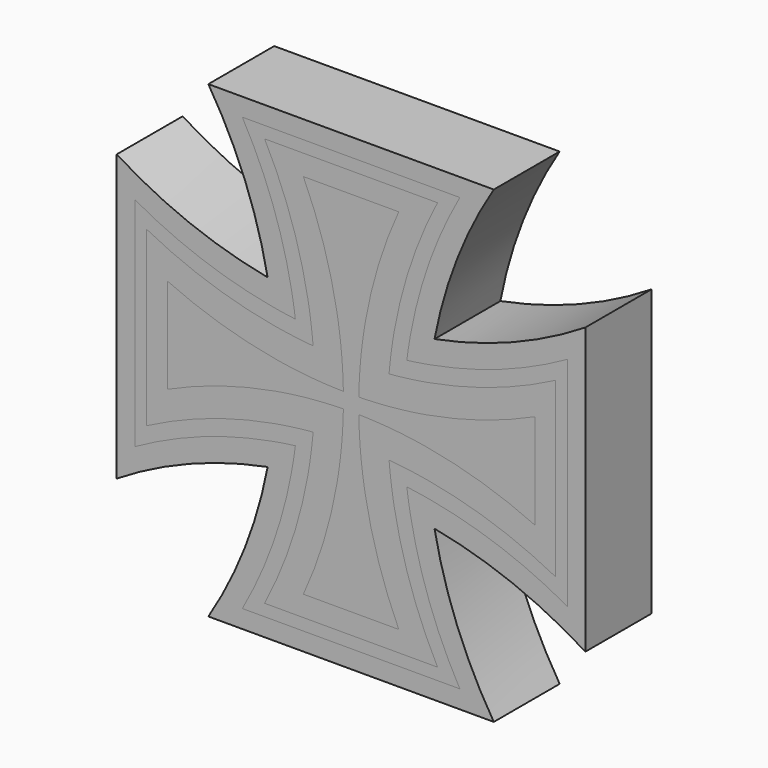
from build123d import *

# Parameters (mm, degrees)
F1_DEPTH = 1.5
F2_DEPTH = 1.5
F3_DEPTH = 1.5
F4_DEPTH = 1.5


with BuildPart() as f1:
    # F0 (on Front) → F1 (new body)
    with BuildSketch(Plane.XZ):
        with BuildLine():
            ThreePointArc((-15.757464312, 12.1418689844), (-15.5155248699, 13.1464746696), (-15.1469683629, 14.1118416347))
            Line((-15.1469683629, 14.1118416347), (-16.8850300933, 14.1118416347))
            ThreePointArc((-16.8850300933, 14.1118416347), (-16.5164735863, 13.1464746696), (-16.2745341442, 12.1418689844))
            ThreePointArc((-16.2745341442, 12.1418689844), (-16.0159992281, 12.1377189774), (-15.757464312, 12.1418689844))
        make_face()
        with BuildLine():
            ThreePointArc((-15.8198349653, 11.7160129562), (-15.7914944292, 11.9293576169), (-15.757464312, 12.1418689844))
            ThreePointArc((-15.757464312, 12.1418689844), (-16.0159992281, 12.1377189774), (-16.2745341442, 12.1418689844))
            ThreePointArc((-16.2745341442, 12.1418689844), (-16.240504027, 11.9293576169), (-16.2121634909, 11.7160129562))
            ThreePointArc((-16.2121634909, 11.7160129562), (-16.0159992281, 11.7136240301), (-15.8198349653, 11.7160129562))
        make_face()
        with BuildLine():
            ThreePointArc((-15.8491107098, 11.4260235496), (-15.8357845549, 11.5711506767), (-15.8198349653, 11.7160129562))
            ThreePointArc((-15.8198349653, 11.7160129562), (-16.0159992281, 11.7136240301), (-16.2121634909, 11.7160129562))
            ThreePointArc((-16.2121634909, 11.7160129562), (-16.1962139013, 11.5711506767), (-16.1828877465, 11.4260235496))
            ThreePointArc((-16.1828877465, 11.4260235496), (-16.0159992281, 11.4242945374), (-15.8491107098, 11.4260235496))
        make_face()
        with BuildLine():
            ThreePointArc((-15.8752925072, 10.9027701447), (-15.8664568138, 11.164609763), (-15.8491107098, 11.4260235496))
            ThreePointArc((-15.8491107098, 11.4260235496), (-16.0159992281, 11.4242945374), (-16.1828877465, 11.4260235496))
            ThreePointArc((-16.1828877465, 11.4260235496), (-16.1655416424, 11.164609763), (-16.156705949, 10.9027701447))
            ThreePointArc((-16.156705949, 10.9027701447), (-16.0159992281, 10.9015411179), (-15.8752925072, 10.9027701447))
        make_face()
        with BuildLine():
            ThreePointArc((-15.8752925072, 10.6213567029), (-15.876521534, 10.7620634238), (-15.8752925072, 10.9027701447))
            ThreePointArc((-15.8752925072, 10.9027701447), (-16.0159992281, 10.9015411179), (-16.156705949, 10.9027701447))
            ThreePointArc((-16.156705949, 10.9027701447), (-16.1554769222, 10.7620634238), (-16.156705949, 10.6213567029))
            ThreePointArc((-16.156705949, 10.6213567029), (-16.0159992281, 10.6225857297), (-15.8752925072, 10.6213567029))
        make_face()
        with BuildLine():
            ThreePointArc((-16.1828877465, 10.0981032979), (-16.0159992281, 10.0998323102), (-15.8491107098, 10.0981032979))
            ThreePointArc((-15.8491107098, 10.0981032979), (-15.8664568138, 10.3595170846), (-15.8752925072, 10.6213567029))
            ThreePointArc((-15.8752925072, 10.6213567029), (-16.0159992281, 10.6225857297), (-16.156705949, 10.6213567029))
            ThreePointArc((-16.156705949, 10.6213567029), (-16.1655416424, 10.3595170846), (-16.1828877465, 10.0981032979))
        make_face()
        with BuildLine():
            ThreePointArc((-16.2121634909, 9.8081138914), (-16.0159992281, 9.8105028175), (-15.8198349653, 9.8081138914))
            ThreePointArc((-15.8198349653, 9.8081138914), (-15.8357845549, 9.9529761708), (-15.8491107098, 10.0981032979))
            ThreePointArc((-15.8491107098, 10.0981032979), (-16.0159992281, 10.0998323102), (-16.1828877465, 10.0981032979))
            ThreePointArc((-16.1828877465, 10.0981032979), (-16.1962139013, 9.9529761708), (-16.2121634909, 9.8081138914))
        make_face()
        with BuildLine():
            ThreePointArc((-16.2745341442, 9.3822578631), (-16.0159992281, 9.3864078702), (-15.757464312, 9.3822578631))
            ThreePointArc((-15.757464312, 9.3822578631), (-15.7914944292, 9.5947692307), (-15.8198349653, 9.8081138914))
            ThreePointArc((-15.8198349653, 9.8081138914), (-16.0159992281, 9.8105028175), (-16.2121634909, 9.8081138914))
            ThreePointArc((-16.2121634909, 9.8081138914), (-16.240504027, 9.5947692307), (-16.2745341442, 9.3822578631))
        make_face()
        with BuildLine():
            Line((-16.8850300933, 7.4122852129), (-15.1469683629, 7.4122852129))
            ThreePointArc((-15.1469683629, 7.4122852129), (-15.5155248699, 8.377652178), (-15.757464312, 9.3822578631))
            ThreePointArc((-15.757464312, 9.3822578631), (-16.0159992281, 9.3864078702), (-16.2745341442, 9.3822578631))
            ThreePointArc((-16.2745341442, 9.3822578631), (-16.5164735863, 8.377652178), (-16.8850300933, 7.4122852129))
        make_face()
        with BuildLine():
            Line((-12.6662210172, 9.8930325586), (-12.6662210172, 11.631094289))
            ThreePointArc((-12.6662210172, 11.631094289), (-13.6315879823, 11.262537782), (-14.6361936675, 11.0205983399))
            ThreePointArc((-14.6361936675, 11.0205983399), (-14.6403436745, 10.7620634238), (-14.6361936675, 10.5035285077))
            ThreePointArc((-14.6361936675, 10.5035285077), (-13.6315879823, 10.2615890656), (-12.6662210172, 9.8930325586))
        make_face()
        with BuildLine():
            ThreePointArc((-14.6361936675, 10.5035285077), (-14.6403436745, 10.7620634238), (-14.6361936675, 11.0205983399))
            ThreePointArc((-14.6361936675, 11.0205983399), (-14.848705035, 10.9865682227), (-15.0620496957, 10.9582276866))
            ThreePointArc((-15.0620496957, 10.9582276866), (-15.0644386218, 10.7620634238), (-15.0620496957, 10.565899161))
            ThreePointArc((-15.0620496957, 10.565899161), (-14.848705035, 10.5375586249), (-14.6361936675, 10.5035285077))
        make_face()
        with BuildLine():
            ThreePointArc((-15.0620496957, 10.565899161), (-15.0644386218, 10.7620634238), (-15.0620496957, 10.9582276866))
            ThreePointArc((-15.0620496957, 10.9582276866), (-15.2069119752, 10.942278097), (-15.3520391023, 10.9289519422))
            ThreePointArc((-15.3520391023, 10.9289519422), (-15.3537681145, 10.7620634238), (-15.3520391023, 10.5951749054))
            ThreePointArc((-15.3520391023, 10.5951749054), (-15.2069119752, 10.5818487506), (-15.0620496957, 10.565899161))
        make_face()
        with BuildLine():
            ThreePointArc((-15.3520391023, 10.5951749054), (-15.3537681145, 10.7620634238), (-15.3520391023, 10.9289519422))
            ThreePointArc((-15.3520391023, 10.9289519422), (-15.6134528889, 10.9116058381), (-15.8752925072, 10.9027701447))
            ThreePointArc((-15.8752925072, 10.9027701447), (-15.876521534, 10.7620634238), (-15.8752925072, 10.6213567029))
            ThreePointArc((-15.8752925072, 10.6213567029), (-15.6134528889, 10.6125210095), (-15.3520391023, 10.5951749054))
        make_face()
        with BuildLine():
            ThreePointArc((-16.156705949, 10.9027701447), (-16.4185455673, 10.9116058381), (-16.679959354, 10.9289519422))
            ThreePointArc((-16.679959354, 10.9289519422), (-16.6782303417, 10.7620634238), (-16.679959354, 10.5951749054))
            ThreePointArc((-16.679959354, 10.5951749054), (-16.4185455673, 10.6125210095), (-16.156705949, 10.6213567029))
            ThreePointArc((-16.156705949, 10.6213567029), (-16.1554769222, 10.7620634238), (-16.156705949, 10.9027701447))
        make_face()
        with BuildLine():
            ThreePointArc((-16.679959354, 10.9289519422), (-16.8250864811, 10.942278097), (-16.9699487605, 10.9582276866))
            ThreePointArc((-16.9699487605, 10.9582276866), (-16.9675598344, 10.7620634238), (-16.9699487605, 10.565899161))
            ThreePointArc((-16.9699487605, 10.565899161), (-16.8250864811, 10.5818487506), (-16.679959354, 10.5951749054))
            ThreePointArc((-16.679959354, 10.5951749054), (-16.6782303417, 10.7620634238), (-16.679959354, 10.9289519422))
        make_face()
        with BuildLine():
            ThreePointArc((-16.9699487605, 10.9582276866), (-17.1832934212, 10.9865682227), (-17.3958047888, 11.0205983399))
            ThreePointArc((-17.3958047888, 11.0205983399), (-17.3916547817, 10.7620634238), (-17.3958047888, 10.5035285077))
            ThreePointArc((-17.3958047888, 10.5035285077), (-17.1832934212, 10.5375586249), (-16.9699487605, 10.565899161))
            ThreePointArc((-16.9699487605, 10.565899161), (-16.9675598344, 10.7620634238), (-16.9699487605, 10.9582276866))
        make_face()
        with BuildLine():
            ThreePointArc((-17.3958047888, 11.0205983399), (-18.4004104739, 11.262537782), (-19.365777439, 11.631094289))
            Line((-19.365777439, 11.631094289), (-19.365777439, 9.8930325586))
            ThreePointArc((-19.365777439, 9.8930325586), (-18.4004104739, 10.2615890656), (-17.3958047888, 10.5035285077))
            ThreePointArc((-17.3958047888, 10.5035285077), (-17.3916547817, 10.7620634238), (-17.3958047888, 11.0205983399))
        make_face()
    extrude(amount=F1_DEPTH)


with BuildPart() as f2:
    # F0 (on Front) → F2 (new body)
    with BuildSketch(Plane.XZ):
        with BuildLine():
            Line((-16.8850300933, 14.1118416347), (-17.591421997, 14.4873552543))
            ThreePointArc((-17.591421997, 14.4873552543), (-17.1093081566, 13.3618576917), (-16.8033493781, 12.1762912682))
            ThreePointArc((-16.8033493781, 12.1762912682), (-16.539224912, 12.1547301977), (-16.2745341442, 12.1418689844))
            ThreePointArc((-16.2745341442, 12.1418689844), (-16.5164735863, 13.1464746696), (-16.8850300933, 14.1118416347))
        make_face()
        Polygon((-15.1469683629, 14.1118416347), (-14.4405764593, 14.4873552543), (-17.591421997, 14.4873552543), (-16.8850300933, 14.1118416347), align=None)
        with BuildLine():
            ThreePointArc((-15.2286490781, 12.1762912682), (-14.9226902997, 13.3618576917), (-14.4405764593, 14.4873552543))
            Line((-14.4405764593, 14.4873552543), (-15.1469683629, 14.1118416347))
            ThreePointArc((-15.1469683629, 14.1118416347), (-15.5155248699, 13.1464746696), (-15.757464312, 12.1418689844))
            ThreePointArc((-15.757464312, 12.1418689844), (-15.4927735442, 12.1547301977), (-15.2286490781, 12.1762912682))
        make_face()
        with BuildLine():
            ThreePointArc((-15.2934360577, 11.7460973333), (-15.2639473679, 11.9616317621), (-15.2286490781, 12.1762912682))
            ThreePointArc((-15.2286490781, 12.1762912682), (-15.4927735442, 12.1547301977), (-15.757464312, 12.1418689844))
            ThreePointArc((-15.757464312, 12.1418689844), (-15.7914944292, 11.9293576169), (-15.8198349653, 11.7160129562))
            ThreePointArc((-15.8198349653, 11.7160129562), (-15.556389294, 11.7267469736), (-15.2934360577, 11.7460973333))
        make_face()
        with BuildLine():
            ThreePointArc((-15.3239878495, 11.4540748024), (-15.3100426263, 11.6002252846), (-15.2934360577, 11.7460973333))
            ThreePointArc((-15.2934360577, 11.7460973333), (-15.556389294, 11.7267469736), (-15.8198349653, 11.7160129562))
            ThreePointArc((-15.8198349653, 11.7160129562), (-15.8357845549, 11.5711506767), (-15.8491107098, 11.4260235496))
            ThreePointArc((-15.8491107098, 11.4260235496), (-15.5863203056, 11.4357627544), (-15.3239878495, 11.4540748024))
        make_face()
        with BuildLine():
            ThreePointArc((-15.3520391023, 10.9289519422), (-15.3422998975, 11.1917423463), (-15.3239878495, 11.4540748024))
            ThreePointArc((-15.3239878495, 11.4540748024), (-15.5863203056, 11.4357627544), (-15.8491107098, 11.4260235496))
            ThreePointArc((-15.8491107098, 11.4260235496), (-15.8664568138, 11.164609763), (-15.8752925072, 10.9027701447))
            ThreePointArc((-15.8752925072, 10.9027701447), (-15.6134528889, 10.9116058381), (-15.3520391023, 10.9289519422))
        make_face()
        with BuildLine():
            ThreePointArc((-15.0620496957, 10.9582276866), (-15.0513156783, 11.2216733579), (-15.0319653186, 11.4846265942))
            ThreePointArc((-15.0319653186, 11.4846265942), (-15.1778373673, 11.4680200256), (-15.3239878495, 11.4540748024))
            ThreePointArc((-15.3239878495, 11.4540748024), (-15.3422998975, 11.1917423463), (-15.3520391023, 10.9289519422))
            ThreePointArc((-15.3520391023, 10.9289519422), (-15.2069119752, 10.942278097), (-15.0620496957, 10.9582276866))
        make_face()
        with BuildLine():
            ThreePointArc((-14.6361936675, 11.0205983399), (-14.6233324542, 11.2852891077), (-14.6017713837, 11.5494135738))
            ThreePointArc((-14.6017713837, 11.5494135738), (-14.8164308898, 11.514115284), (-15.0319653186, 11.4846265942))
            ThreePointArc((-15.0319653186, 11.4846265942), (-15.0513156783, 11.2216733579), (-15.0620496957, 10.9582276866))
            ThreePointArc((-15.0620496957, 10.9582276866), (-14.848705035, 10.9865682227), (-14.6361936675, 11.0205983399))
        make_face()
        with BuildLine():
            Line((-12.6662210172, 11.631094289), (-12.2907073976, 12.3374861926))
            ThreePointArc((-12.2907073976, 12.3374861926), (-13.4162049602, 11.8553723522), (-14.6017713837, 11.5494135738))
            ThreePointArc((-14.6017713837, 11.5494135738), (-14.6233324542, 11.2852891077), (-14.6361936675, 11.0205983399))
            ThreePointArc((-14.6361936675, 11.0205983399), (-13.6315879823, 11.262537782), (-12.6662210172, 11.631094289))
        make_face()
        Polygon((-12.2907073976, 9.1866406549), (-12.2907073976, 12.3374861926), (-12.6662210172, 11.631094289), (-12.6662210172, 9.8930325586), align=None)
        with BuildLine():
            ThreePointArc((-14.6017713837, 9.9747132738), (-13.4162049602, 9.6687544953), (-12.2907073976, 9.1866406549))
            Line((-12.2907073976, 9.1866406549), (-12.6662210172, 9.8930325586))
            ThreePointArc((-12.6662210172, 9.8930325586), (-13.6315879823, 10.2615890656), (-14.6361936675, 10.5035285077))
            ThreePointArc((-14.6361936675, 10.5035285077), (-14.6233324542, 10.2388377399), (-14.6017713837, 9.9747132738))
        make_face()
        with BuildLine():
            ThreePointArc((-15.0319653186, 10.0395002534), (-14.8164308898, 10.0100115635), (-14.6017713837, 9.9747132738))
            ThreePointArc((-14.6017713837, 9.9747132738), (-14.6233324542, 10.2388377399), (-14.6361936675, 10.5035285077))
            ThreePointArc((-14.6361936675, 10.5035285077), (-14.848705035, 10.5375586249), (-15.0620496957, 10.565899161))
            ThreePointArc((-15.0620496957, 10.565899161), (-15.0513156783, 10.3024534896), (-15.0319653186, 10.0395002534))
        make_face()
        with BuildLine():
            ThreePointArc((-15.3239878495, 10.0700520452), (-15.1778373673, 10.0561068219), (-15.0319653186, 10.0395002534))
            ThreePointArc((-15.0319653186, 10.0395002534), (-15.0513156783, 10.3024534896), (-15.0620496957, 10.565899161))
            ThreePointArc((-15.0620496957, 10.565899161), (-15.2069119752, 10.5818487506), (-15.3520391023, 10.5951749054))
            ThreePointArc((-15.3520391023, 10.5951749054), (-15.3422998975, 10.3323845013), (-15.3239878495, 10.0700520452))
        make_face()
        with BuildLine():
            ThreePointArc((-15.8491107098, 10.0981032979), (-15.5863203056, 10.0883640931), (-15.3239878495, 10.0700520452))
            ThreePointArc((-15.3239878495, 10.0700520452), (-15.3422998975, 10.3323845013), (-15.3520391023, 10.5951749054))
            ThreePointArc((-15.3520391023, 10.5951749054), (-15.6134528889, 10.6125210095), (-15.8752925072, 10.6213567029))
            ThreePointArc((-15.8752925072, 10.6213567029), (-15.8664568138, 10.3595170846), (-15.8491107098, 10.0981032979))
        make_face()
        with BuildLine():
            ThreePointArc((-15.8198349653, 9.8081138914), (-15.556389294, 9.797379874), (-15.2934360577, 9.7780295142))
            ThreePointArc((-15.2934360577, 9.7780295142), (-15.3100426263, 9.923901563), (-15.3239878495, 10.0700520452))
            ThreePointArc((-15.3239878495, 10.0700520452), (-15.5863203056, 10.0883640931), (-15.8491107098, 10.0981032979))
            ThreePointArc((-15.8491107098, 10.0981032979), (-15.8357845549, 9.9529761708), (-15.8198349653, 9.8081138914))
        make_face()
        with BuildLine():
            ThreePointArc((-15.757464312, 9.3822578631), (-15.4927735442, 9.3693966498), (-15.2286490781, 9.3478355794))
            ThreePointArc((-15.2286490781, 9.3478355794), (-15.2639473679, 9.5624950855), (-15.2934360577, 9.7780295142))
            ThreePointArc((-15.2934360577, 9.7780295142), (-15.556389294, 9.797379874), (-15.8198349653, 9.8081138914))
            ThreePointArc((-15.8198349653, 9.8081138914), (-15.7914944292, 9.5947692307), (-15.757464312, 9.3822578631))
        make_face()
        with BuildLine():
            Line((-15.1469683629, 7.4122852129), (-14.4405764593, 7.0367715933))
            ThreePointArc((-14.4405764593, 7.0367715933), (-14.9226902997, 8.1622691559), (-15.2286490781, 9.3478355794))
            ThreePointArc((-15.2286490781, 9.3478355794), (-15.4927735442, 9.3693966498), (-15.757464312, 9.3822578631))
            ThreePointArc((-15.757464312, 9.3822578631), (-15.5155248699, 8.377652178), (-15.1469683629, 7.4122852129))
        make_face()
        Polygon((-17.591421997, 7.0367715933), (-14.4405764593, 7.0367715933), (-15.1469683629, 7.4122852129), (-16.8850300933, 7.4122852129), align=None)
        with BuildLine():
            ThreePointArc((-16.8033493781, 9.3478355794), (-17.1093081566, 8.1622691559), (-17.591421997, 7.0367715933))
            Line((-17.591421997, 7.0367715933), (-16.8850300933, 7.4122852129))
            ThreePointArc((-16.8850300933, 7.4122852129), (-16.5164735863, 8.377652178), (-16.2745341442, 9.3822578631))
            ThreePointArc((-16.2745341442, 9.3822578631), (-16.539224912, 9.3693966498), (-16.8033493781, 9.3478355794))
        make_face()
        with BuildLine():
            ThreePointArc((-16.7385623985, 9.7780295142), (-16.7680510884, 9.5624950855), (-16.8033493781, 9.3478355794))
            ThreePointArc((-16.8033493781, 9.3478355794), (-16.539224912, 9.3693966498), (-16.2745341442, 9.3822578631))
            ThreePointArc((-16.2745341442, 9.3822578631), (-16.240504027, 9.5947692307), (-16.2121634909, 9.8081138914))
            ThreePointArc((-16.2121634909, 9.8081138914), (-16.4756091623, 9.797379874), (-16.7385623985, 9.7780295142))
        make_face()
        with BuildLine():
            ThreePointArc((-16.7080106067, 10.0700520452), (-16.72195583, 9.923901563), (-16.7385623985, 9.7780295142))
            ThreePointArc((-16.7385623985, 9.7780295142), (-16.4756091623, 9.797379874), (-16.2121634909, 9.8081138914))
            ThreePointArc((-16.2121634909, 9.8081138914), (-16.1962139013, 9.9529761708), (-16.1828877465, 10.0981032979))
            ThreePointArc((-16.1828877465, 10.0981032979), (-16.4456781506, 10.0883640931), (-16.7080106067, 10.0700520452))
        make_face()
        with BuildLine():
            ThreePointArc((-16.679959354, 10.5951749054), (-16.6896985588, 10.3323845013), (-16.7080106067, 10.0700520452))
            ThreePointArc((-16.7080106067, 10.0700520452), (-16.4456781506, 10.0883640931), (-16.1828877465, 10.0981032979))
            ThreePointArc((-16.1828877465, 10.0981032979), (-16.1655416424, 10.3595170846), (-16.156705949, 10.6213567029))
            ThreePointArc((-16.156705949, 10.6213567029), (-16.4185455673, 10.6125210095), (-16.679959354, 10.5951749054))
        make_face()
        with BuildLine():
            ThreePointArc((-16.9699487605, 10.565899161), (-16.9806827779, 10.3024534896), (-17.0000331377, 10.0395002534))
            ThreePointArc((-17.0000331377, 10.0395002534), (-16.8541610889, 10.0561068219), (-16.7080106067, 10.0700520452))
            ThreePointArc((-16.7080106067, 10.0700520452), (-16.6896985588, 10.3323845013), (-16.679959354, 10.5951749054))
            ThreePointArc((-16.679959354, 10.5951749054), (-16.8250864811, 10.5818487506), (-16.9699487605, 10.565899161))
        make_face()
        with BuildLine():
            ThreePointArc((-17.3958047888, 10.5035285077), (-17.4086660021, 10.2388377399), (-17.4302270725, 9.9747132738))
            ThreePointArc((-17.4302270725, 9.9747132738), (-17.2155675664, 10.0100115635), (-17.0000331377, 10.0395002534))
            ThreePointArc((-17.0000331377, 10.0395002534), (-16.9806827779, 10.3024534896), (-16.9699487605, 10.565899161))
            ThreePointArc((-16.9699487605, 10.565899161), (-17.1832934212, 10.5375586249), (-17.3958047888, 10.5035285077))
        make_face()
        with BuildLine():
            Line((-19.365777439, 9.8930325586), (-19.7412910586, 9.1866406549))
            ThreePointArc((-19.7412910586, 9.1866406549), (-18.615793496, 9.6687544953), (-17.4302270725, 9.9747132738))
            ThreePointArc((-17.4302270725, 9.9747132738), (-17.4086660021, 10.2388377399), (-17.3958047888, 10.5035285077))
            ThreePointArc((-17.3958047888, 10.5035285077), (-18.4004104739, 10.2615890656), (-19.365777439, 9.8930325586))
        make_face()
        Polygon((-19.365777439, 11.631094289), (-19.7412910586, 12.3374861926), (-19.7412910586, 9.1866406549), (-19.365777439, 9.8930325586), align=None)
        with BuildLine():
            ThreePointArc((-17.4302270725, 11.5494135738), (-18.615793496, 11.8553723522), (-19.7412910586, 12.3374861926))
            Line((-19.7412910586, 12.3374861926), (-19.365777439, 11.631094289))
            ThreePointArc((-19.365777439, 11.631094289), (-18.4004104739, 11.262537782), (-17.3958047888, 11.0205983399))
            ThreePointArc((-17.3958047888, 11.0205983399), (-17.4086660021, 11.2852891077), (-17.4302270725, 11.5494135738))
        make_face()
        with BuildLine():
            ThreePointArc((-17.0000331377, 11.4846265942), (-17.2155675664, 11.514115284), (-17.4302270725, 11.5494135738))
            ThreePointArc((-17.4302270725, 11.5494135738), (-17.4086660021, 11.2852891077), (-17.3958047888, 11.0205983399))
            ThreePointArc((-17.3958047888, 11.0205983399), (-17.1832934212, 10.9865682227), (-16.9699487605, 10.9582276866))
            ThreePointArc((-16.9699487605, 10.9582276866), (-16.9806827779, 11.2216733579), (-17.0000331377, 11.4846265942))
        make_face()
        with BuildLine():
            ThreePointArc((-16.7080106067, 11.4540748024), (-16.8541610889, 11.4680200256), (-17.0000331377, 11.4846265942))
            ThreePointArc((-17.0000331377, 11.4846265942), (-16.9806827779, 11.2216733579), (-16.9699487605, 10.9582276866))
            ThreePointArc((-16.9699487605, 10.9582276866), (-16.8250864811, 10.942278097), (-16.679959354, 10.9289519422))
            ThreePointArc((-16.679959354, 10.9289519422), (-16.6896985588, 11.1917423463), (-16.7080106067, 11.4540748024))
        make_face()
        with BuildLine():
            ThreePointArc((-16.1828877465, 11.4260235496), (-16.4456781506, 11.4357627544), (-16.7080106067, 11.4540748024))
            ThreePointArc((-16.7080106067, 11.4540748024), (-16.6896985588, 11.1917423463), (-16.679959354, 10.9289519422))
            ThreePointArc((-16.679959354, 10.9289519422), (-16.4185455673, 10.9116058381), (-16.156705949, 10.9027701447))
            ThreePointArc((-16.156705949, 10.9027701447), (-16.1655416424, 11.164609763), (-16.1828877465, 11.4260235496))
        make_face()
        with BuildLine():
            ThreePointArc((-16.2121634909, 11.7160129562), (-16.4756091623, 11.7267469736), (-16.7385623985, 11.7460973333))
            ThreePointArc((-16.7385623985, 11.7460973333), (-16.72195583, 11.6002252846), (-16.7080106067, 11.4540748024))
            ThreePointArc((-16.7080106067, 11.4540748024), (-16.4456781506, 11.4357627544), (-16.1828877465, 11.4260235496))
            ThreePointArc((-16.1828877465, 11.4260235496), (-16.1962139013, 11.5711506767), (-16.2121634909, 11.7160129562))
        make_face()
        with BuildLine():
            ThreePointArc((-16.2745341442, 12.1418689844), (-16.539224912, 12.1547301977), (-16.8033493781, 12.1762912682))
            ThreePointArc((-16.8033493781, 12.1762912682), (-16.7680510884, 11.9616317621), (-16.7385623985, 11.7460973333))
            ThreePointArc((-16.7385623985, 11.7460973333), (-16.4756091623, 11.7267469736), (-16.2121634909, 11.7160129562))
            ThreePointArc((-16.2121634909, 11.7160129562), (-16.240504027, 11.9293576169), (-16.2745341442, 12.1418689844))
        make_face()
    extrude(amount=F2_DEPTH)


with BuildPart() as f3:
    # F0 (on Front) → F3 (new body)
    with BuildSketch(Plane.XZ):
        with BuildLine():
            ThreePointArc((-17.4647799126, 11.8449829231), (-18.748198257, 12.1911430244), (-19.9572113899, 12.7436615372))
            Line((-19.9572113899, 12.7436615372), (-19.7412910586, 12.3374861926))
            ThreePointArc((-19.7412910586, 12.3374861926), (-18.615793496, 11.8553723522), (-17.4302270725, 11.5494135738))
            ThreePointArc((-17.4302270725, 11.5494135738), (-17.4461384636, 11.697357824), (-17.4647799126, 11.8449829231))
        make_face()
        with BuildLine():
            ThreePointArc((-17.0318756147, 11.7779398104), (-17.2487836027, 11.8085179669), (-17.4647799126, 11.8449829231))
            ThreePointArc((-17.4647799126, 11.8449829231), (-17.4461384636, 11.697357824), (-17.4302270725, 11.5494135738))
            ThreePointArc((-17.4302270725, 11.5494135738), (-17.2155675664, 11.514115284), (-17.0000331377, 11.4846265942))
            ThreePointArc((-17.0000331377, 11.4846265942), (-17.0146113562, 11.6314290023), (-17.0318756147, 11.7779398104))
        make_face()
        with BuildLine():
            ThreePointArc((-16.7385623985, 11.7460973333), (-16.8853648067, 11.7606755519), (-17.0318756147, 11.7779398104))
            ThreePointArc((-17.0318756147, 11.7779398104), (-17.0146113562, 11.6314290023), (-17.0000331377, 11.4846265942))
            ThreePointArc((-17.0000331377, 11.4846265942), (-16.8541610889, 11.4680200256), (-16.7080106067, 11.4540748024))
            ThreePointArc((-16.7080106067, 11.4540748024), (-16.72195583, 11.6002252846), (-16.7385623985, 11.7460973333))
        make_face()
        with BuildLine():
            ThreePointArc((-16.8033493781, 12.1762912682), (-16.9512936283, 12.1922026593), (-17.0989187275, 12.2108441083))
            ThreePointArc((-17.0989187275, 12.2108441083), (-17.0624537712, 11.9948477984), (-17.0318756147, 11.7779398104))
            ThreePointArc((-17.0318756147, 11.7779398104), (-16.8853648067, 11.7606755519), (-16.7385623985, 11.7460973333))
            ThreePointArc((-16.7385623985, 11.7460973333), (-16.7680510884, 11.9616317621), (-16.8033493781, 12.1762912682))
        make_face()
        with BuildLine():
            Line((-17.591421997, 14.4873552543), (-17.9975973415, 14.7032755856))
            ThreePointArc((-17.9975973415, 14.7032755856), (-17.4450788287, 13.4942624527), (-17.0989187275, 12.2108441083))
            ThreePointArc((-17.0989187275, 12.2108441083), (-16.9512936283, 12.1922026593), (-16.8033493781, 12.1762912682))
            ThreePointArc((-16.8033493781, 12.1762912682), (-17.1093081566, 13.3618576917), (-17.591421997, 14.4873552543))
        make_face()
        Polygon((-14.4405764593, 14.4873552543), (-14.0344011147, 14.7032755856), (-17.9975973415, 14.7032755856), (-17.591421997, 14.4873552543), align=None)
        with BuildLine():
            ThreePointArc((-14.9330797288, 12.2108441083), (-14.5869196275, 13.4942624527), (-14.0344011147, 14.7032755856))
            Line((-14.0344011147, 14.7032755856), (-14.4405764593, 14.4873552543))
            ThreePointArc((-14.4405764593, 14.4873552543), (-14.9226902997, 13.3618576917), (-15.2286490781, 12.1762912682))
            ThreePointArc((-15.2286490781, 12.1762912682), (-15.0807048279, 12.1922026593), (-14.9330797288, 12.2108441083))
        make_face()
        with BuildLine():
            ThreePointArc((-15.0001228415, 11.7779398104), (-14.969544685, 11.9948477984), (-14.9330797288, 12.2108441083))
            ThreePointArc((-14.9330797288, 12.2108441083), (-15.0807048279, 12.1922026593), (-15.2286490781, 12.1762912682))
            ThreePointArc((-15.2286490781, 12.1762912682), (-15.2639473679, 11.9616317621), (-15.2934360577, 11.7460973333))
            ThreePointArc((-15.2934360577, 11.7460973333), (-15.1466336496, 11.7606755519), (-15.0001228415, 11.7779398104))
        make_face()
        with BuildLine():
            ThreePointArc((-15.0319653186, 11.4846265942), (-15.0173871, 11.6314290023), (-15.0001228415, 11.7779398104))
            ThreePointArc((-15.0001228415, 11.7779398104), (-15.1466336496, 11.7606755519), (-15.2934360577, 11.7460973333))
            ThreePointArc((-15.2934360577, 11.7460973333), (-15.3100426263, 11.6002252846), (-15.3239878495, 11.4540748024))
            ThreePointArc((-15.3239878495, 11.4540748024), (-15.1778373673, 11.4680200256), (-15.0319653186, 11.4846265942))
        make_face()
        with BuildLine():
            ThreePointArc((-14.6017713837, 11.5494135738), (-14.5858599926, 11.697357824), (-14.5672185436, 11.8449829231))
            ThreePointArc((-14.5672185436, 11.8449829231), (-14.7832148535, 11.8085179669), (-15.0001228415, 11.7779398104))
            ThreePointArc((-15.0001228415, 11.7779398104), (-15.0173871, 11.6314290023), (-15.0319653186, 11.4846265942))
            ThreePointArc((-15.0319653186, 11.4846265942), (-14.8164308898, 11.514115284), (-14.6017713837, 11.5494135738))
        make_face()
        with BuildLine():
            Line((-12.2907073976, 12.3374861926), (-12.0747870663, 12.7436615372))
            ThreePointArc((-12.0747870663, 12.7436615372), (-13.2838001992, 12.1911430244), (-14.5672185436, 11.8449829231))
            ThreePointArc((-14.5672185436, 11.8449829231), (-14.5858599926, 11.697357824), (-14.6017713837, 11.5494135738))
            ThreePointArc((-14.6017713837, 11.5494135738), (-13.4162049602, 11.8553723522), (-12.2907073976, 12.3374861926))
        make_face()
        Polygon((-12.0747870663, 8.7804653104), (-12.0747870663, 12.7436615372), (-12.2907073976, 12.3374861926), (-12.2907073976, 9.1866406549), align=None)
        with BuildLine():
            ThreePointArc((-14.5672185436, 9.6791439244), (-13.2838001992, 9.3329838232), (-12.0747870663, 8.7804653104))
            Line((-12.0747870663, 8.7804653104), (-12.2907073976, 9.1866406549))
            ThreePointArc((-12.2907073976, 9.1866406549), (-13.4162049602, 9.6687544953), (-14.6017713837, 9.9747132738))
            ThreePointArc((-14.6017713837, 9.9747132738), (-14.5858599926, 9.8267690236), (-14.5672185436, 9.6791439244))
        make_face()
        with BuildLine():
            ThreePointArc((-15.0001228415, 9.7461870372), (-14.7832148535, 9.7156088807), (-14.5672185436, 9.6791439244))
            ThreePointArc((-14.5672185436, 9.6791439244), (-14.5858599926, 9.8267690236), (-14.6017713837, 9.9747132738))
            ThreePointArc((-14.6017713837, 9.9747132738), (-14.8164308898, 10.0100115635), (-15.0319653186, 10.0395002534))
            ThreePointArc((-15.0319653186, 10.0395002534), (-15.0173871, 9.8926978452), (-15.0001228415, 9.7461870372))
        make_face()
        with BuildLine():
            ThreePointArc((-15.2934360577, 9.7780295142), (-15.1466336496, 9.7634512957), (-15.0001228415, 9.7461870372))
            ThreePointArc((-15.0001228415, 9.7461870372), (-15.0173871, 9.8926978452), (-15.0319653186, 10.0395002534))
            ThreePointArc((-15.0319653186, 10.0395002534), (-15.1778373673, 10.0561068219), (-15.3239878495, 10.0700520452))
            ThreePointArc((-15.3239878495, 10.0700520452), (-15.3100426263, 9.923901563), (-15.2934360577, 9.7780295142))
        make_face()
        with BuildLine():
            ThreePointArc((-15.2286490781, 9.3478355794), (-15.0807048279, 9.3319241883), (-14.9330797288, 9.3132827393))
            ThreePointArc((-14.9330797288, 9.3132827393), (-14.969544685, 9.5292790492), (-15.0001228415, 9.7461870372))
            ThreePointArc((-15.0001228415, 9.7461870372), (-15.1466336496, 9.7634512957), (-15.2934360577, 9.7780295142))
            ThreePointArc((-15.2934360577, 9.7780295142), (-15.2639473679, 9.5624950855), (-15.2286490781, 9.3478355794))
        make_face()
        with BuildLine():
            Line((-14.4405764593, 7.0367715933), (-14.0344011147, 6.820851262))
            ThreePointArc((-14.0344011147, 6.820851262), (-14.5869196275, 8.0298643949), (-14.9330797288, 9.3132827393))
            ThreePointArc((-14.9330797288, 9.3132827393), (-15.0807048279, 9.3319241883), (-15.2286490781, 9.3478355794))
            ThreePointArc((-15.2286490781, 9.3478355794), (-14.9226902997, 8.1622691559), (-14.4405764593, 7.0367715933))
        make_face()
        Polygon((-17.9975973415, 6.820851262), (-14.0344011147, 6.820851262), (-14.4405764593, 7.0367715933), (-17.591421997, 7.0367715933), align=None)
        with BuildLine():
            ThreePointArc((-17.0989187275, 9.3132827393), (-17.4450788287, 8.0298643949), (-17.9975973415, 6.820851262))
            Line((-17.9975973415, 6.820851262), (-17.591421997, 7.0367715933))
            ThreePointArc((-17.591421997, 7.0367715933), (-17.1093081566, 8.1622691559), (-16.8033493781, 9.3478355794))
            ThreePointArc((-16.8033493781, 9.3478355794), (-16.9512936283, 9.3319241883), (-17.0989187275, 9.3132827393))
        make_face()
        with BuildLine():
            ThreePointArc((-17.0318756147, 9.7461870372), (-17.0624537712, 9.5292790492), (-17.0989187275, 9.3132827393))
            ThreePointArc((-17.0989187275, 9.3132827393), (-16.9512936283, 9.3319241883), (-16.8033493781, 9.3478355794))
            ThreePointArc((-16.8033493781, 9.3478355794), (-16.7680510884, 9.5624950855), (-16.7385623985, 9.7780295142))
            ThreePointArc((-16.7385623985, 9.7780295142), (-16.8853648067, 9.7634512957), (-17.0318756147, 9.7461870372))
        make_face()
        with BuildLine():
            ThreePointArc((-17.0000331377, 10.0395002534), (-17.0146113562, 9.8926978452), (-17.0318756147, 9.7461870372))
            ThreePointArc((-17.0318756147, 9.7461870372), (-16.8853648067, 9.7634512957), (-16.7385623985, 9.7780295142))
            ThreePointArc((-16.7385623985, 9.7780295142), (-16.72195583, 9.923901563), (-16.7080106067, 10.0700520452))
            ThreePointArc((-16.7080106067, 10.0700520452), (-16.8541610889, 10.0561068219), (-17.0000331377, 10.0395002534))
        make_face()
        with BuildLine():
            ThreePointArc((-17.4302270725, 9.9747132738), (-17.4461384636, 9.8267690236), (-17.4647799126, 9.6791439244))
            ThreePointArc((-17.4647799126, 9.6791439244), (-17.2487836027, 9.7156088807), (-17.0318756147, 9.7461870372))
            ThreePointArc((-17.0318756147, 9.7461870372), (-17.0146113562, 9.8926978452), (-17.0000331377, 10.0395002534))
            ThreePointArc((-17.0000331377, 10.0395002534), (-17.2155675664, 10.0100115635), (-17.4302270725, 9.9747132738))
        make_face()
        with BuildLine():
            Line((-19.7412910586, 9.1866406549), (-19.9572113899, 8.7804653104))
            ThreePointArc((-19.9572113899, 8.7804653104), (-18.748198257, 9.3329838232), (-17.4647799126, 9.6791439244))
            ThreePointArc((-17.4647799126, 9.6791439244), (-17.4461384636, 9.8267690236), (-17.4302270725, 9.9747132738))
            ThreePointArc((-17.4302270725, 9.9747132738), (-18.615793496, 9.6687544953), (-19.7412910586, 9.1866406549))
        make_face()
        Polygon((-19.7412910586, 12.3374861926), (-19.9572113899, 12.7436615372), (-19.9572113899, 8.7804653104), (-19.7412910586, 9.1866406549), align=None)
    extrude(amount=F3_DEPTH)


with BuildPart() as f4:
    # F0 (on Front) → F4 (new body)
    with BuildSketch(Plane.XZ):
        with BuildLine():
            ThreePointArc((-17.5364541803, 12.2825183759), (-18.9613615528, 12.6955202777), (-20.2863604492, 13.3628354325))
            Line((-20.2863604492, 13.3628354325), (-19.9572113899, 12.7436615372))
            ThreePointArc((-19.9572113899, 12.7436615372), (-18.748198257, 12.1911430244), (-17.4647799126, 11.8449829231))
            ThreePointArc((-17.4647799126, 11.8449829231), (-17.4976061376, 12.0642438774), (-17.5364541803, 12.2825183759))
        make_face()
        with BuildLine():
            ThreePointArc((-17.0989187275, 12.2108441083), (-17.3181796817, 12.2436703332), (-17.5364541803, 12.2825183759))
            ThreePointArc((-17.5364541803, 12.2825183759), (-17.4976061376, 12.0642438774), (-17.4647799126, 11.8449829231))
            ThreePointArc((-17.4647799126, 11.8449829231), (-17.2487836027, 11.8085179669), (-17.0318756147, 11.7779398104))
            ThreePointArc((-17.0318756147, 11.7779398104), (-17.0624537712, 11.9948477984), (-17.0989187275, 12.2108441083))
        make_face()
        with BuildLine():
            Line((-17.9975973415, 14.7032755856), (-18.6167712368, 15.0324246449))
            ThreePointArc((-18.6167712368, 15.0324246449), (-17.9494560821, 13.7074257485), (-17.5364541803, 12.2825183759))
            ThreePointArc((-17.5364541803, 12.2825183759), (-17.3181796817, 12.2436703332), (-17.0989187275, 12.2108441083))
            ThreePointArc((-17.0989187275, 12.2108441083), (-17.4450788287, 13.4942624527), (-17.9975973415, 14.7032755856))
        make_face()
        Polygon((-14.0344011147, 14.7032755856), (-13.4152272194, 15.0324246449), (-18.6167712368, 15.0324246449), (-17.9975973415, 14.7032755856), align=None)
        with BuildLine():
            ThreePointArc((-14.495544276, 12.2825183759), (-14.0825423742, 13.7074257485), (-13.4152272194, 15.0324246449))
            Line((-13.4152272194, 15.0324246449), (-14.0344011147, 14.7032755856))
            ThreePointArc((-14.0344011147, 14.7032755856), (-14.5869196275, 13.4942624527), (-14.9330797288, 12.2108441083))
            ThreePointArc((-14.9330797288, 12.2108441083), (-14.7138187745, 12.2436703332), (-14.495544276, 12.2825183759))
        make_face()
        with BuildLine():
            ThreePointArc((-14.5672185436, 11.8449829231), (-14.5343923187, 12.0642438774), (-14.495544276, 12.2825183759))
            ThreePointArc((-14.495544276, 12.2825183759), (-14.7138187745, 12.2436703332), (-14.9330797288, 12.2108441083))
            ThreePointArc((-14.9330797288, 12.2108441083), (-14.969544685, 11.9948477984), (-15.0001228415, 11.7779398104))
            ThreePointArc((-15.0001228415, 11.7779398104), (-14.7832148535, 11.8085179669), (-14.5672185436, 11.8449829231))
        make_face()
        with BuildLine():
            Line((-12.0747870663, 12.7436615372), (-11.745638007, 13.3628354325))
            ThreePointArc((-11.745638007, 13.3628354325), (-13.0706369034, 12.6955202777), (-14.495544276, 12.2825183759))
            ThreePointArc((-14.495544276, 12.2825183759), (-14.5343923187, 12.0642438774), (-14.5672185436, 11.8449829231))
            ThreePointArc((-14.5672185436, 11.8449829231), (-13.2838001992, 12.1911430244), (-12.0747870663, 12.7436615372))
        make_face()
        Polygon((-11.745638007, 8.1612914151), (-11.745638007, 13.3628354325), (-12.0747870663, 12.7436615372), (-12.0747870663, 8.7804653104), align=None)
        with BuildLine():
            ThreePointArc((-14.495544276, 9.2416084717), (-13.0706369034, 8.8286065698), (-11.745638007, 8.1612914151))
            Line((-11.745638007, 8.1612914151), (-12.0747870663, 8.7804653104))
            ThreePointArc((-12.0747870663, 8.7804653104), (-13.2838001992, 9.3329838232), (-14.5672185436, 9.6791439244))
            ThreePointArc((-14.5672185436, 9.6791439244), (-14.5343923187, 9.4598829702), (-14.495544276, 9.2416084717))
        make_face()
        with BuildLine():
            ThreePointArc((-14.9330797288, 9.3132827393), (-14.7138187745, 9.2804565143), (-14.495544276, 9.2416084717))
            ThreePointArc((-14.495544276, 9.2416084717), (-14.5343923187, 9.4598829702), (-14.5672185436, 9.6791439244))
            ThreePointArc((-14.5672185436, 9.6791439244), (-14.7832148535, 9.7156088807), (-15.0001228415, 9.7461870372))
            ThreePointArc((-15.0001228415, 9.7461870372), (-14.969544685, 9.5292790492), (-14.9330797288, 9.3132827393))
        make_face()
        with BuildLine():
            Line((-14.0344011147, 6.820851262), (-13.4152272194, 6.4917022027))
            ThreePointArc((-13.4152272194, 6.4917022027), (-14.0825423742, 7.8167010991), (-14.495544276, 9.2416084717))
            ThreePointArc((-14.495544276, 9.2416084717), (-14.7138187745, 9.2804565143), (-14.9330797288, 9.3132827393))
            ThreePointArc((-14.9330797288, 9.3132827393), (-14.5869196275, 8.0298643949), (-14.0344011147, 6.820851262))
        make_face()
        Polygon((-18.6167712368, 6.4917022027), (-13.4152272194, 6.4917022027), (-14.0344011147, 6.820851262), (-17.9975973415, 6.820851262), align=None)
        with BuildLine():
            ThreePointArc((-17.5364541803, 9.2416084717), (-17.9494560821, 7.8167010991), (-18.6167712368, 6.4917022027))
            Line((-18.6167712368, 6.4917022027), (-17.9975973415, 6.820851262))
            ThreePointArc((-17.9975973415, 6.820851262), (-17.4450788287, 8.0298643949), (-17.0989187275, 9.3132827393))
            ThreePointArc((-17.0989187275, 9.3132827393), (-17.3181796817, 9.2804565143), (-17.5364541803, 9.2416084717))
        make_face()
        with BuildLine():
            Line((-19.9572113899, 8.7804653104), (-20.2863604492, 8.1612914151))
            ThreePointArc((-20.2863604492, 8.1612914151), (-18.9613615528, 8.8286065698), (-17.5364541803, 9.2416084717))
            ThreePointArc((-17.5364541803, 9.2416084717), (-17.4976061376, 9.4598829702), (-17.4647799126, 9.6791439244))
            ThreePointArc((-17.4647799126, 9.6791439244), (-18.748198257, 9.3329838232), (-19.9572113899, 8.7804653104))
        make_face()
        Polygon((-19.9572113899, 12.7436615372), (-20.2863604492, 13.3628354325), (-20.2863604492, 8.1612914151), (-19.9572113899, 8.7804653104), align=None)
        with BuildLine():
            ThreePointArc((-17.4647799126, 9.6791439244), (-17.4976061376, 9.4598829702), (-17.5364541803, 9.2416084717))
            ThreePointArc((-17.5364541803, 9.2416084717), (-17.3181796817, 9.2804565143), (-17.0989187275, 9.3132827393))
            ThreePointArc((-17.0989187275, 9.3132827393), (-17.0624537712, 9.5292790492), (-17.0318756147, 9.7461870372))
            ThreePointArc((-17.0318756147, 9.7461870372), (-17.2487836027, 9.7156088807), (-17.4647799126, 9.6791439244))
        make_face()
    extrude(amount=F4_DEPTH)


solid = Compound([f1.part, f2.part, f3.part, f4.part])
